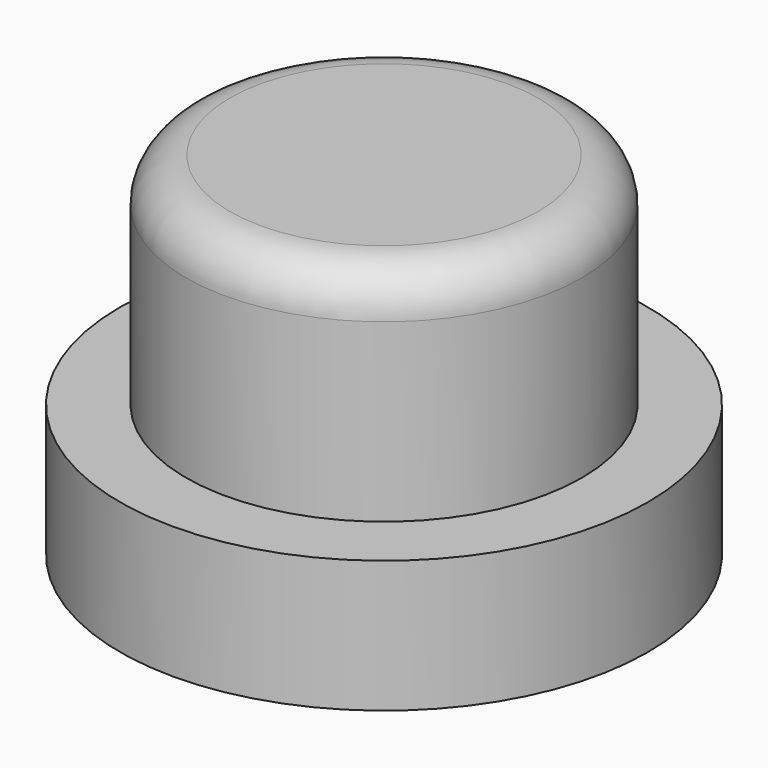
from build123d import *

# Parameters (mm, degrees)
F0_R     = 3
F0_R_2   = 2.25
F1_DEPTH = 1.5
F2_DEPTH = 4
F3_R     = 0.5


with BuildPart() as f1:
    # F0 (on Top) → F1 (new body)
    with BuildSketch(Plane.XY):
        Circle(F0_R)
        Circle(F0_R_2, mode=Mode.SUBTRACT)
        Circle(F0_R_2)
    extrude(amount=F1_DEPTH)

    # F0 (on Top) → F2 (join)
    with BuildSketch(Plane.XY):
        Circle(F0_R_2)
    extrude(amount=F2_DEPTH)

    # F3
    f3_edges = [f1.edges().sort_by_distance(p)[0] for p in [
        (-2.25, 0, 4),
    ]]
    fillet(f3_edges, radius=F3_R)


solid = f1.part
